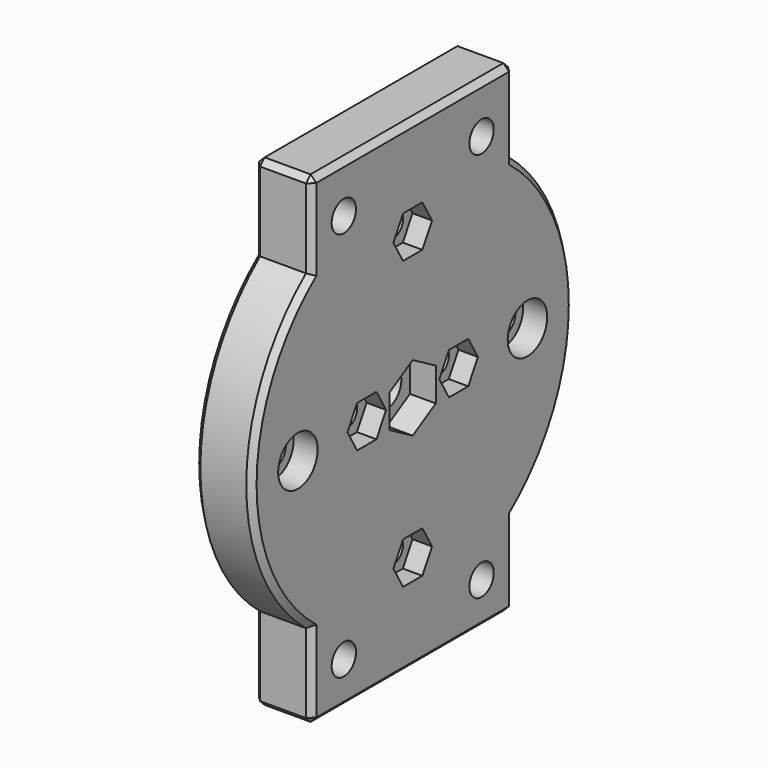
from build123d import *

# Parameters (mm, degrees)
CYLINDER014005932_R                                                    = 2.65
CYLINDER014005932_DEPTH                                                = 10
CYLINDER014005933_R                                                    = 2.65
CYLINDER014005933_DEPTH                                                = 10
CYLINDER014005934_R                                                    = 2.65
CYLINDER014005934_DEPTH                                                = 10
CYLINDER014005935_R                                                    = 4.3
CYLINDER014005935_DEPTH                                                = 4.2
CYLINDER014005936_R                                                    = 4.3
CYLINDER014005936_DEPTH                                                = 4.2
CYLINDER014005937_R                                                    = 4.3
CYLINDER014005937_DEPTH                                                = 4.2
CYLINDER014005938_R                                                    = 4.3
CYLINDER014005938_DEPTH                                                = 4.2
CYLINDER014005939_R                                                    = 2.65
CYLINDER014005939_DEPTH                                                = 10
CYLINDER014005940_R                                                    = 2.65
CYLINDER014005940_DEPTH                                                = 10
CYLINDER014005941_R                                                    = 4.3
CYLINDER014005941_DEPTH                                                = 4.2
CYLINDER014005942_R                                                    = 4.3
CYLINDER014005942_DEPTH                                                = 4.2
CYLINDER014005943_R                                                    = 3.15
CYLINDER014005943_DEPTH                                                = 10
PRISM010_DEPTH                                                         = 4.5
PRISM018_DEPTH                                                         = 3.4
CYLINDER014005962027_R                                                 = 2.15
CYLINDER014005962027_DEPTH                                             = 16
FUSION001089102007007003008034028016007006009018009018_PLACEMENT_ANGLE = 90
CYLINDER014005931_R                                                    = 2.65
CYLINDER014005931_DEPTH                                                = 10
BOX021002_W                                                            = 10
BOX021002_H                                                            = 44
BOX021002_DEPTH                                                        = 84
CYLINDER014005928_R                                                    = 35
CYLINDER014005928_DEPTH                                                = 10
CUT009003003009003003003007003002_PLACEMENT_ANGLE                      = 90
CHAMFER017_SIZE                                                        = 1
CHAMFER017_PLACEMENT_ANGLE                                             = 90


with BuildPart() as obj1:
    # Cylinder014005932 → Cylinder014005932 (new body)
    with BuildSketch(Plane(origin=(0, 15, 7.5), x_dir=(0, 0, -1), z_dir=(1, 0, 0))):
        Circle(CYLINDER014005932_R)
    extrude(amount=CYLINDER014005932_DEPTH)


with BuildPart() as obj2:
    # Cylinder014005933 → Cylinder014005933 (new body)
    with BuildSketch(Plane(origin=(0, -15, 75.5), x_dir=(0, 0, -1), z_dir=(1, 0, 0))):
        Circle(CYLINDER014005933_R)
    extrude(amount=CYLINDER014005933_DEPTH)


with BuildPart() as obj3:
    # Cylinder014005934 → Cylinder014005934 (new body)
    with BuildSketch(Plane(origin=(0, 15, 75.5), x_dir=(0, 0, -1), z_dir=(1, 0, 0))):
        Circle(CYLINDER014005934_R)
    extrude(amount=CYLINDER014005934_DEPTH)


with BuildPart() as obj4:
    # Cylinder014005935 → Cylinder014005935 (new body)
    with BuildSketch(Plane(origin=(0, -15, 7.5), x_dir=(0, 0, -1), z_dir=(1, 0, 0))):
        Circle(CYLINDER014005935_R)
    extrude(amount=CYLINDER014005935_DEPTH)


with BuildPart() as obj5:
    # Cylinder014005936 → Cylinder014005936 (new body)
    with BuildSketch(Plane(origin=(0, 15, 7.5), x_dir=(0, 0, -1), z_dir=(1, 0, 0))):
        Circle(CYLINDER014005936_R)
    extrude(amount=CYLINDER014005936_DEPTH)


with BuildPart() as obj6:
    # Cylinder014005937 → Cylinder014005937 (new body)
    with BuildSketch(Plane(origin=(0, -15, 75.5), x_dir=(0, 0, -1), z_dir=(1, 0, 0))):
        Circle(CYLINDER014005937_R)
    extrude(amount=CYLINDER014005937_DEPTH)


with BuildPart() as obj7:
    # Cylinder014005938 → Cylinder014005938 (new body)
    with BuildSketch(Plane(origin=(0, 15, 75.5), x_dir=(0, 0, -1), z_dir=(1, 0, 0))):
        Circle(CYLINDER014005938_R)
    extrude(amount=CYLINDER014005938_DEPTH)


with BuildPart() as obj8:
    # Cylinder014005939 → Cylinder014005939 (new body)
    with BuildSketch(Plane(origin=(0, -25, 42), x_dir=(0, 0, -1), z_dir=(1, 0, 0))):
        Circle(CYLINDER014005939_R)
    extrude(amount=CYLINDER014005939_DEPTH)


with BuildPart() as obj9:
    # Cylinder014005940 → Cylinder014005940 (new body)
    with BuildSketch(Plane(origin=(0, 25, 42), x_dir=(0, 0, -1), z_dir=(1, 0, 0))):
        Circle(CYLINDER014005940_R)
    extrude(amount=CYLINDER014005940_DEPTH)


with BuildPart() as obj10:
    # Cylinder014005941 → Cylinder014005941 (new body)
    with BuildSketch(Plane(origin=(5.8, -25, 42), x_dir=(0, 0, -1), z_dir=(1, 0, 0))):
        Circle(CYLINDER014005941_R)
    extrude(amount=CYLINDER014005941_DEPTH)


with BuildPart() as obj11:
    # Cylinder014005942 → Cylinder014005942 (new body)
    with BuildSketch(Plane(origin=(5.8, 25, 42), x_dir=(0, 0, -1), z_dir=(1, 0, 0))):
        Circle(CYLINDER014005942_R)
    extrude(amount=CYLINDER014005942_DEPTH)


with BuildPart() as obj12:
    # Cylinder014005943 → Cylinder014005943 (new body)
    with BuildSketch(Plane(origin=(0, 0, 0), x_dir=(0, 0, -1), z_dir=(1, 0, 0))):
        Circle(CYLINDER014005943_R)
    extrude(amount=CYLINDER014005943_DEPTH)


with BuildPart() as fusion001089102007007003008034028016004:
    # Prism010 → Prism010 (new body)
    with BuildSketch(Plane(origin=(5.5, 0, 0), x_dir=(0, 0, -1), z_dir=(1, 0, 0))):
        Polygon((5.8, 0), (2.9, 5.022947), (-2.9, 5.022947), (-5.8, 0), (-2.9, -5.022947), (2.9, -5.022947), align=None)
    extrude(amount=PRISM010_DEPTH)

    # Fusion001089102007007003008034028016004: union obj12
    add(obj12.part)


with BuildPart() as fusion001089102007007003008034028016004_1:
    # Fusion001089102007007003008034028016004 placement: moved
    add(fusion001089102007007003008034028016004.part.moved(Location((0, 0, 41.5))))


with BuildPart() as m4x010:
    # prism018 → prism018 (new body)
    with BuildSketch(Plane(origin=(0, 0, 0), x_dir=(0, 1, 0), z_dir=(0, 0, 1))):
        Polygon((4.21, 0), (2.105, 3.645967), (-2.105, 3.645967), (-4.21, 0), (-2.105, -3.645967), (2.105, -3.645967), align=None)
    extrude(amount=PRISM018_DEPTH)


with BuildPart() as m4nut042:
    # Cylinder014005962027 → Cylinder014005962027 (new body)
    with BuildSketch(Plane.XY):
        Circle(CYLINDER014005962027_R)
    extrude(amount=CYLINDER014005962027_DEPTH)

    # Fusion001089102007007003008034028016007006009018009018: union M4X010
    add(m4x010.part)


with BuildPart() as m4nut042_1:
    # Fusion001089102007007003008034028016007006009018009018 placement: moved
    add(m4nut042.part.moved(Location((10, 0, 42))).rotate(Axis((10, 0, 42), (0, -1, 0)), FUSION001089102007007003008034028016007006009018009018_PLACEMENT_ANGLE))


with BuildPart() as m4nut043:
    # Fusion001089102007007003008034028016007006009018009019 base: copy of M4nut042
    add(m4nut042_1.part)


with BuildPart() as m4nut043_1:
    # Fusion001089102007007003008034028016007006009018009019 placement: moved
    add(m4nut043.part.moved(Location((0, 10, 0))))


with BuildPart() as m4nut044:
    # Fusion001089102007007003008034028016007006009018009020 base: copy of M4nut042
    add(m4nut042_1.part)


with BuildPart() as m4nut044_1:
    # Fusion001089102007007003008034028016007006009018009020 placement: moved
    add(m4nut044.part.moved(Location((0, -10, 0))))


with BuildPart() as m4nut046:
    # Fusion001089102007007003008034028016007006009018009022 base: copy of M4nut042
    add(m4nut042_1.part)


with BuildPart() as m4nut046_1:
    # Fusion001089102007007003008034028016007006009018009022 placement: moved
    add(m4nut046.part.moved(Location((0, 0, -25))))


with BuildPart() as m4nut045:
    # Fusion001089102007007003008034028016007006009018009021 base: copy of M4nut042
    add(m4nut042_1.part)


with BuildPart() as m4nut045_1:
    # Fusion001089102007007003008034028016007006009018009021 placement: moved
    add(m4nut045.part.moved(Location((0, 0, 25))))


with BuildPart() as fusion001089102007007003008034028016003:
    # Cylinder014005931 → Cylinder014005931 (new body)
    with BuildSketch(Plane(origin=(0, -15, 7.5), x_dir=(0, 0, -1), z_dir=(1, 0, 0))):
        Circle(CYLINDER014005931_R)
    extrude(amount=CYLINDER014005931_DEPTH)

    # Fusion001089102007007003008034028016003: union obj1, obj2, obj3, obj4, obj5, obj6, obj7, obj8, obj9, obj10, obj11, Fusion001089102007007003008034028016004, M4nut043, M4nut044, M4nut046, M4nut045
    add(obj1.part)
    add(obj2.part)
    add(obj3.part)
    add(obj4.part)
    add(obj5.part)
    add(obj6.part)
    add(obj7.part)
    add(obj8.part)
    add(obj9.part)
    add(obj10.part)
    add(obj11.part)
    add(fusion001089102007007003008034028016004_1.part)
    add(m4nut043_1.part)
    add(m4nut044_1.part)
    add(m4nut046_1.part)
    add(m4nut045_1.part)


with BuildPart() as krychle024:
    # Box021002 → Box021002 (new body)
    with BuildSketch(Plane(origin=(0, -22, 0), x_dir=(1, 0, 0), z_dir=(0, 0, 1))):
        with Locations((5, 22)):
            Rectangle(BOX021002_W, BOX021002_H)
    extrude(amount=BOX021002_DEPTH)


with BuildPart() as obj13:
    # Cylinder014005928 → Cylinder014005928 (new body)
    with BuildSketch(Plane(origin=(0, 0, 42), x_dir=(0, 0, -1), z_dir=(1, 0, 0))):
        Circle(CYLINDER014005928_R)
    extrude(amount=CYLINDER014005928_DEPTH)

    # Fusion001089102007007003008034028016002: union Krychle024
    add(krychle024.part)

    # Cut009003003009003003003007003002: cut Fusion001089102007007003008034028016003
    add(fusion001089102007007003008034028016003.part, mode=Mode.SUBTRACT)


with BuildPart() as obj13_1:
    # Cut009003003009003003003007003002 placement: moved
    add(obj13.part.rotate(Axis((0, 0, 0), (1, 0, 0)), CUT009003003009003003003007003002_PLACEMENT_ANGLE))

    # Chamfer017
    chamfer017_edges = [obj13_1.edges().sort_by_distance(p)[0] for p in [
        (0, -42, -35),
        (10, -42, -35),
        (10, -76.610658, -22),
        (5, -84, -22),
        (0, -76.610658, -22),
        (0, -84, 0),
        (5, -84, 22),
        (10, -84, 0),
        (10, -76.610658, 22),
        (0, -76.610658, 22),
        (10, -42, 35),
        (0, -42, 35),
        (10, -7.389342, -22),
        (0, -7.389342, -22),
        (5, 0, -22),
        (10, -7.389342, 22),
        (0, -7.389342, 22),
        (5, 0, 22),
        (0, 0, 0),
        (10, 0, 0),
    ]]
    chamfer(chamfer017_edges, length=CHAMFER017_SIZE)


with BuildPart() as obj13_2:
    # Chamfer017 placement: moved
    add(obj13_1.part.rotate(Axis((0, 0, 0), (-1, 0, 0)), CHAMFER017_PLACEMENT_ANGLE))


solid = obj13_2.part
